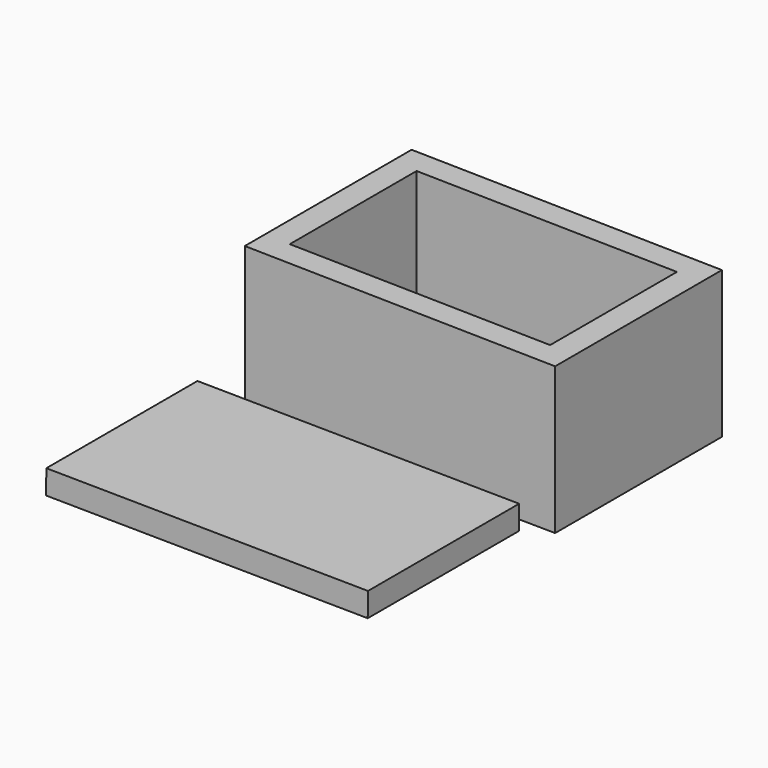
from build123d import *

# Parameters (mm, degrees)
F1_DEPTH = 21.16737
F2_T     = -2.54
F3_W     = 32.657153
F3_H     = 19.177892
F4_DEPTH = 2.451424


with BuildPart() as f1:
    # F0 (on Front) → F1 (new body)
    with BuildSketch(Plane.XZ):
        Polygon((6.436735, 20.495936), (6.436735, 35.402082), (-25.069445, 35.910249), (-25.069445, 20.834714), align=None)
    extrude(amount=F1_DEPTH)

    # F2
    f2_openings = [f1.faces().sort_by_distance(p)[0] for p in [
        (-9.316355, -10.583685, 35.656165),
    ]]
    offset(amount=F2_T, openings=f2_openings)


with BuildPart() as f4:
    # F3 (on face) → F4 (new body)
    with BuildSketch(Plane(origin=(0.248417, 0, 23.102625), x_dir=(0.999942, 0, -0.010752), z_dir=(0.010752, 0, 0.999942))):
        with Locations((-9.565324, -36.078006)):
            Rectangle(F3_W, F3_H)
    extrude(amount=F4_DEPTH)


solid = Compound([f1.part, f4.part])
